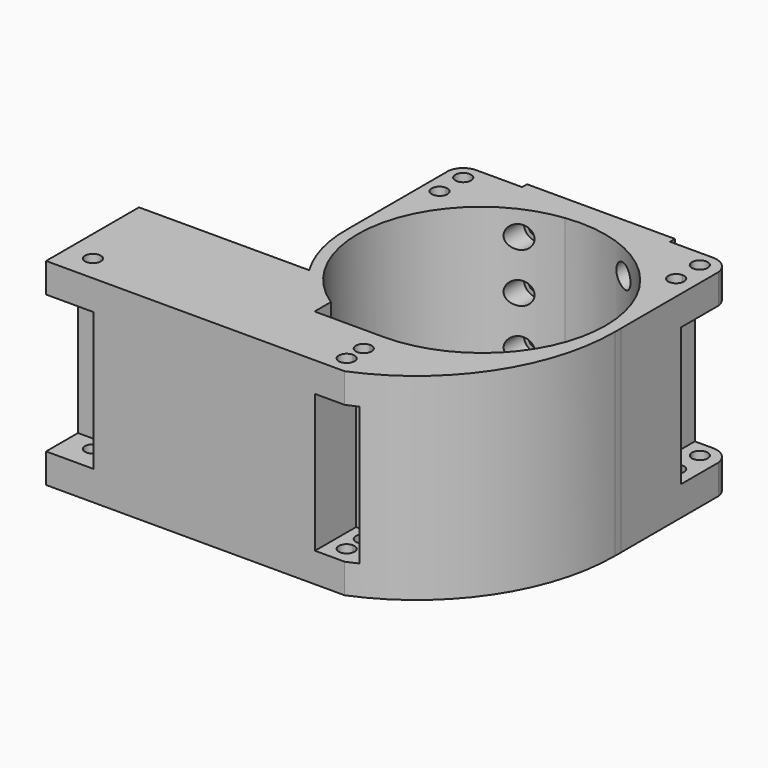
from build123d import *

# Parameters (mm, degrees)
F0_R      = 2.032
F0_W      = 38.1
F0_H      = 1.5911871894
F1_DEPTH  = 50.8
F2_R      = 2.921
F3_DEPTH  = 25.4
F4_R      = 3.3085566202
F4_R_2    = 1.778
F4_R_3    = 3.3416262585
F4_R_4    = 3.3132121707
F4_R_5    = 3.2384622703
F4_R_6    = 3.3713904368
F4_R_7    = 3.3375559393
F4_R_8    = 3.4345823963
F4_R_9    = 3.3621818379
F5_DEPTH  = 4.318
F7_DEPTH  = 70.99886
F8_W      = 10.7836315399
F8_H      = 35.56
F8_W_2    = 9.9580323333
F9_DEPTH  = 8.16232
F10_W     = 14.2002555393
F10_H     = 35.56
F11_DEPTH = 25.4
F12_W     = 9.3796587213
F12_H     = 35.56
F12_W_2   = 12.1425018982
F13_DEPTH = 9.46672
F15_DEPTH = 10.26749
F16_W     = 7.62
F16_H     = 35.56
F16_W_2   = 2.8383330057
F17_DEPTH = 13.18911


with BuildPart() as f1:
    # F0 (on Top) → F1 (new body)
    with BuildSketch(Plane.XY):
        with BuildLine():
            Line((9.257380051, -34.8949540767), (9.257380051, -34.7506358949))
            ThreePointArc((9.257380051, -34.7506358949), (31.5413567294, -23.8815248293), (40.9965739244, -0.961837664))
            Line((40.9965739244, -0.961837664), (40.9965739244, 1.0219295106))
            ThreePointArc((40.9965739244, 1.0219295106), (37.2919679905, 15.7119486475), (27.7152879965, 27.4511124874))
            Line((27.7152879965, 27.4511124874), (25.1356617056, 32.4770995752))
            Line((25.1356617056, 32.4770995752), (25.1356617056, 36.6494578914))
            Line((25.1356617056, 36.6494578914), (-12.9643382944, 36.6494578914))
            Line((-12.9643382944, 36.6494578914), (-12.9643382944, 32.4770995752))
            Line((-12.9643382944, 32.4770995752), (-15.5439645854, 27.4511124874))
            ThreePointArc((-15.5439645854, 27.4511124874), (-25.2194287336, 15.6260208958), (-28.9317067088, 0.8048741835))
            ThreePointArc((-28.9317067088, 0.8048741835), (-27.7468637395, -9.1475073506), (-23.7885464796, -18.3554102352))
            Line((-23.7885464796, -18.3554102352), (-67.6215744567, -18.3554102352))
            Line((-67.6215744567, -18.3554102352), (-67.6215744567, -40.4534102352))
            Line((-67.6215744567, -40.4534102352), (-67.6215744567, -46.3198646903))
            Line((-67.6215744567, -46.3198646903), (2.9106617056, -46.3198646903))
            Line((2.9106617056, -46.3198646903), (2.9106617056, -34.8949540767))
            Line((2.9106617056, -34.8949540767), (6.0840208783, -34.8949540767))
            Line((6.0840208783, -34.8949540767), (9.257380051, -34.8949540767))
        make_face()
        with Locations((-60.9317310154, -41.5510870516)):
            Circle(F0_R, mode=Mode.SUBTRACT)
        with BuildLine():
            ThreePointArc((2.1167634058, 31.5310037863), (37.7733400061, 2.0183979859), (6.0856617056, -31.7199540767))
            ThreePointArc((6.0856617056, -31.7199540767), (5.7465442882, -31.721766273), (5.4074268709, -31.7199540767))
            Line((5.4074268709, -31.7199540767), (-11.7174554091, -31.7199540767))
            Line((-11.7174554091, -31.7199540767), (-11.7174554091, -26.4834102352))
            ThreePointArc((-11.7174554091, -26.4834102352), (-25.118564708, 7.3689148079), (2.1167634058, 31.5310037863))
        make_face(mode=Mode.SUBTRACT)
        with BuildLine():
            ThreePointArc((40.9965739244, -0.961837664), (31.5413567294, -23.8815248293), (9.257380051, -34.7506358949))
            Line((9.257380051, -34.7506358949), (9.257380051, -34.8949540767))
            Line((9.257380051, -34.8949540767), (9.257380051, -46.3198646903))
            Line((9.257380051, -46.3198646903), (9.257380051, -48.2634715736))
            ThreePointArc((9.257380051, -48.2634715736), (32.3264986134, -29.4435028113), (40.9965739244, -0.961837664))
        make_face()
        with BuildLine():
            Line((40.9965739244, 1.0219295106), (40.9965739244, -0.961837664))
            ThreePointArc((40.9965739244, -0.961837664), (41.0106617056, 0.0300459233), (40.9965739244, 1.0219295106))
        make_face()
        with BuildLine():
            ThreePointArc((27.7152879965, 27.4511124874), (37.2919679905, 15.7119486475), (40.9965739244, 1.0219295106))
            Line((40.9965739244, 1.0219295106), (40.9965739244, 32.4770995752))
            ThreePointArc((40.9965739244, 32.4770995752), (39.3457791013, 35.4628102476), (36.1471138895, 36.6494578914))
            Line((36.1471138895, 36.6494578914), (25.1356617056, 36.6494578914))
            Line((25.1356617056, 36.6494578914), (25.1356617056, 32.4770995752))
            Line((25.1356617056, 32.4770995752), (27.7152879965, 27.4511124874))
        make_face()
        with BuildLine():
            ThreePointArc((38.1791138895, 24.8570995752), (34.7102729101, 23.4202585958), (36.1471138895, 26.8890995752))
            ThreePointArc((36.1471138895, 26.8890995752), (37.5839548688, 26.2939405545), (38.1791138895, 24.8570995752))
        make_face(mode=Mode.SUBTRACT)
        with BuildLine():
            ThreePointArc((36.1471138895, 30.4450995752), (34.7102729101, 31.0402585958), (34.1151138895, 32.4770995752))
            ThreePointArc((34.1151138895, 32.4770995752), (36.1471138895, 34.5090995752), (38.1791138895, 32.4770995752))
            ThreePointArc((38.1791138895, 32.4770995752), (37.5839548688, 31.0402585958), (36.1471138895, 30.4450995752))
        make_face(mode=Mode.SUBTRACT)
        Polygon((-67.6215744567, -48.2634715736), (9.257380051, -48.2634715736), (9.257380051, -46.3198646903), (6.0840208783, -46.3198646903), (2.9106617056, -46.3198646903), (-67.6215744567, -46.3198646903), align=None)
        with Locations((6.0856617056, 37.4450514861)):
            Rectangle(F0_W, F0_H)
        with BuildLine():
            Line((-12.9643382944, 32.4770995752), (-12.9643382944, 36.6494578914))
            Line((-12.9643382944, 36.6494578914), (-24.5110608811, 36.6494578914))
            Line((-24.5110608811, 36.6494578914), (-25.0620737499, 36.6494578914))
            ThreePointArc((-25.0620737499, 36.6494578914), (-28.0207996598, 35.1274238679), (-28.9317067088, 31.9272840386))
            Line((-28.9317067088, 31.9272840386), (-28.9317067088, 0.8048741835))
            ThreePointArc((-28.9317067088, 0.8048741835), (-25.2194287336, 15.6260208958), (-15.5439645854, 27.4511124874))
            Line((-15.5439645854, 27.4511124874), (-12.9643382944, 32.4770995752))
        make_face()
        with BuildLine():
            ThreePointArc((-22.7545673155, 24.8570995752), (-26.2234082948, 23.4202585958), (-24.7865673155, 26.8890995752))
            ThreePointArc((-24.7865673155, 26.8890995752), (-23.3497263361, 26.2939405545), (-22.7545673155, 24.8570995752))
        make_face(mode=Mode.SUBTRACT)
        with BuildLine():
            ThreePointArc((-24.7865673155, 30.4450995752), (-26.2234082948, 33.9139405545), (-22.7545673155, 32.4770995752))
            ThreePointArc((-22.7545673155, 32.4770995752), (-23.3497263361, 31.0402585958), (-24.7865673155, 30.4450995752))
        make_face(mode=Mode.SUBTRACT)
        with BuildLine():
            Line((-25.0620737499, 36.6494578914), (-24.5110608811, 36.6494578914))
            ThreePointArc((-24.5110608811, 36.6494578914), (-24.7865673155, 36.6585440282), (-25.0620737499, 36.6494578914))
        make_face()
        with BuildLine():
            Line((6.0840208783, -36.1167500754), (6.0840208783, -34.8949540767))
            Line((6.0840208783, -34.8949540767), (2.9106617056, -34.8949540767))
            Line((2.9106617056, -34.8949540767), (2.9106617056, -46.3198646903))
            Line((2.9106617056, -46.3198646903), (6.0840208783, -46.3198646903))
            Line((6.0840208783, -46.3198646903), (6.0840208783, -45.6658894069))
            ThreePointArc((6.0840208783, -45.6658894069), (4.0520208783, -43.6338894069), (6.0840208783, -41.6018894069))
            Line((6.0840208783, -41.6018894069), (6.0840208783, -40.1726429324))
            ThreePointArc((6.0840208783, -40.1726429324), (4.0560744498, -38.1446965039), (6.0840208783, -36.1167500754))
        make_face()
        with BuildLine():
            Line((9.257380051, -46.3198646903), (9.257380051, -34.8949540767))
            Line((9.257380051, -34.8949540767), (6.0840208783, -34.8949540767))
            Line((6.0840208783, -34.8949540767), (6.0840208783, -36.1167500754))
            ThreePointArc((6.0840208783, -36.1167500754), (7.5179955498, -36.7107218324), (8.1119673068, -38.1446965039))
            ThreePointArc((8.1119673068, -38.1446965039), (7.5179955498, -39.5786711754), (6.0840208783, -40.1726429324))
            Line((6.0840208783, -40.1726429324), (6.0840208783, -41.6018894069))
            ThreePointArc((6.0840208783, -41.6018894069), (7.5208618576, -42.1970484275), (8.1160208783, -43.6338894069))
            ThreePointArc((8.1160208783, -43.6338894069), (7.5208618576, -45.0707303863), (6.0840208783, -45.6658894069))
            Line((6.0840208783, -45.6658894069), (6.0840208783, -46.3198646903))
            Line((6.0840208783, -46.3198646903), (9.257380051, -46.3198646903))
        make_face()
    extrude(amount=F1_DEPTH)

    # F2 (on face) → F3 (cut)
    with BuildSketch(Plane(origin=(0, 38.2406450808, 0), x_dir=(-1, 0, 0), z_dir=(0, 1, 0))):
        with Locations((-19.5730617056, 44.45)):
            Circle(F2_R)
        with BuildLine():
            ThreePointArc((10.3227382944, 44.45), (7.4017382944, 47.371), (4.4807382944, 44.45))
            ThreePointArc((4.4807382944, 44.45), (7.4017382944, 41.529), (10.3227382944, 44.45))
        make_face()
        with BuildLine():
            ThreePointArc((10.3227382944, 31.75), (7.4017382944, 34.671), (4.4807382944, 31.75))
            ThreePointArc((4.4807382944, 31.75), (7.4017382944, 28.829), (10.3227382944, 31.75))
        make_face()
        with BuildLine():
            ThreePointArc((10.3100382944, 19.05), (7.3890382944, 21.971), (4.4680382944, 19.05))
            ThreePointArc((4.4680382944, 19.05), (7.3890382944, 16.129), (10.3100382944, 19.05))
        make_face()
        with BuildLine():
            ThreePointArc((10.3100382944, 6.35), (7.3890382944, 9.271), (4.4680382944, 6.35))
            ThreePointArc((4.4680382944, 6.35), (7.3890382944, 3.429), (10.3100382944, 6.35))
        make_face()
        with Locations((-19.5603617056, 6.35)):
            Circle(F2_R)
        with Locations((-19.5730617056, 19.05)):
            Circle(F2_R)
        with Locations((-19.5730617056, 31.75)):
            Circle(F2_R)
    extrude(amount=-F3_DEPTH, mode=Mode.SUBTRACT)

    # F4 (on face) → F5 (join)
    with BuildSketch(Plane(origin=(0, 38.2406450808, 0), x_dir=(-1, 0, 0), z_dir=(0, 1, 0))):
        with Locations((7.3890382944, 6.35)):
            Circle(F4_R)
        with Locations((7.3890382944, 6.35)):
            Circle(F4_R_2, mode=Mode.SUBTRACT)
        with Locations((7.3890382944, 19.05)):
            Circle(F4_R_3)
        with Locations((7.3890382944, 19.05)):
            Circle(F4_R_2, mode=Mode.SUBTRACT)
        with Locations((7.4017382944, 31.75)):
            Circle(F4_R_4)
        with Locations((7.4017382944, 31.75)):
            Circle(F4_R_2, mode=Mode.SUBTRACT)
        with Locations((7.4017382944, 44.45)):
            Circle(F4_R_5)
        with Locations((7.4017382944, 44.45)):
            Circle(F4_R_2, mode=Mode.SUBTRACT)
        with Locations((-19.5603617056, 6.35)):
            Circle(F4_R_6)
        with Locations((-19.5603617056, 6.35)):
            Circle(F4_R_2, mode=Mode.SUBTRACT)
        with Locations((-19.5730617056, 19.05)):
            Circle(F4_R_7)
        with Locations((-19.5730617056, 19.05)):
            Circle(F4_R_2, mode=Mode.SUBTRACT)
        with Locations((-19.5730617056, 31.75)):
            Circle(F4_R_8)
        with Locations((-19.5730617056, 31.75)):
            Circle(F4_R_2, mode=Mode.SUBTRACT)
        with Locations((-19.5730617056, 44.45)):
            Circle(F4_R_9)
        with Locations((-19.5730617056, 44.45)):
            Circle(F4_R_2, mode=Mode.SUBTRACT)
    extrude(amount=-F5_DEPTH)

    # F6 (on face) → F7 (cut)
    with BuildSketch(Plane(origin=(-67.6215744567, 0, 0), x_dir=(0, -1, 0), z_dir=(-1, 0, 0))):
        with BuildLine():
            Line((18.3554102352, 46.482), (18.3554102352, 25.4))
            Line((18.3554102352, 25.4), (31.0554102352, 25.4))
            ThreePointArc((31.0554102352, 25.4), (27.6351446527, 37.7059002515), (18.3554102352, 46.482))
        make_face()
        with BuildLine():
            Line((31.0554102352, 25.4), (18.3554102352, 25.4))
            Line((18.3554102352, 25.4), (18.3554102352, 4.318))
            ThreePointArc((18.3554102352, 4.318), (27.6351446527, 13.0940997485), (31.0554102352, 25.4))
        make_face()
    extrude(amount=-F7_DEPTH, mode=Mode.SUBTRACT)

    # F8 (on face) → F9 (cut)
    with BuildSketch(Plane(origin=(-28.9317067088, 0, 0), x_dir=(0, -1, 0), z_dir=(-1, 0, 0))):
        with Locations((-26.5354682687, 25.4)):
            Rectangle(F8_W, F8_H)
        with Locations((-36.9063002053, 25.4)):
            Rectangle(F8_W_2, F8_H)
    extrude(amount=-F9_DEPTH, mode=Mode.SUBTRACT)

    # F10 (on face) → F11 (cut)
    with BuildSketch(Plane(origin=(-28.9317067088, 0, 0), x_dir=(0, -1, 0), z_dir=(-1, 0, 0))):
        with Locations((-37.764778493, 25.4)):
            Rectangle(F10_W, F10_H)
    extrude(amount=F11_DEPTH, mode=Mode.SUBTRACT)

    # F12 (on face) → F13 (cut)
    with BuildSketch(Plane.YZ.offset(40.9965739244)):
        with Locations((37.1669289358, 25.4)):
            Rectangle(F12_W, F12_H)
        with Locations((26.4058486261, 25.4)):
            Rectangle(F12_W_2, F12_H)
    extrude(amount=-F13_DEPTH, mode=Mode.SUBTRACT)

    # F14 (on face) → F15 (cut)
    with BuildSketch(Plane.XZ.offset(48.2634715736)):
        Polygon((-67.6215744567, 43.18), (-67.6215744567, 7.62), (-61.4927097684, 7.62), (-55.3638450801, 7.62), (-55.3638450801, 43.18), (-61.4927097684, 43.18), align=None)
    extrude(amount=-F15_DEPTH, mode=Mode.SUBTRACT)

    # F16 (on face) → F17 (cut)
    with BuildSketch(Plane.XZ.offset(48.2634715736)):
        with Locations((5.447380051, 25.4)):
            Rectangle(F16_W, F16_H)
        with Locations((10.6765465538, 25.4)):
            Rectangle(F16_W_2, F16_H)
    extrude(amount=-F17_DEPTH, mode=Mode.SUBTRACT)


solid = f1.part
